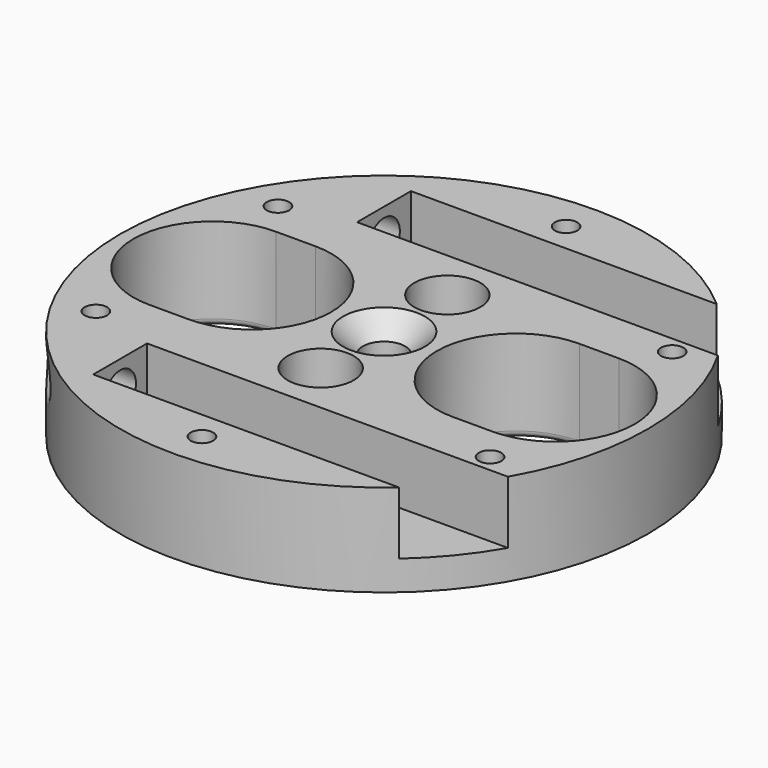
from build123d import *

# Parameters (mm, degrees)
SKETCH020_R           = 40
SKETCH020_R_2         = 3.2
SKETCH020_R_3         = 5
PAD_DEPTH             = 14
SKETCH_W              = 60
SKETCH_H              = 10.2
POCKET_DEPTH          = 9.5
SKETCH022_R           = 1.7
POCKET002_DEPTH       = 242.001
POLARPATTERN001_COUNT = 6
SKETCH024_R           = 3
POCKET003_DEPTH       = 20.001
CHAMFER_SIZE          = 3
CHAMFER001_SIZE       = 1.7
CHAMFER002_SIZE       = 1.7
CHAMFER003_SIZE       = 1.7
CHAMFER004_SIZE       = 1.7
CHAMFER005_SIZE       = 1.7
CHAMFER006_SIZE       = 1.7
FILLET_R              = 1
FILLET001_R           = 1
FILLET002_R           = 1
FILLET003_R           = 1
FILLET004_R           = 1
FILLET005_R           = 1


with BuildPart() as part:
    # Sketch020 → Pad (new body)
    with BuildSketch(Plane(origin=(0, 0, 0), x_dir=(1, 0, 0), z_dir=(0, 0, -1))):
        Circle(SKETCH020_R)
        Circle(SKETCH020_R_2, mode=Mode.SUBTRACT)
        with Locations((0, 12)):
            Circle(SKETCH020_R_3, mode=Mode.SUBTRACT)
        with Locations((0, -12)):
            Circle(SKETCH020_R_3, mode=Mode.SUBTRACT)
        with BuildLine():
            ThreePointArc((-26, 12), (-38, 0), (-26, -12))
            Line((-26, -12), (-20, -12))
            ThreePointArc((-20, -12), (-8, 0), (-20, 12))
            Line((-26, 12), (-20, 12))
        make_face(mode=Mode.SUBTRACT)
        with BuildLine():
            ThreePointArc((20, 12), (8, 0), (20, -12))
            Line((20, -12), (26, -12))
            ThreePointArc((26, -12), (38, 0), (26, 12))
            Line((20, 12), (26, 12))
        make_face(mode=Mode.SUBTRACT)
    extrude(amount=PAD_DEPTH)

    # Sketch → Pocket (cut)
    with BuildSketch(Plane.XY):
        with Locations((10, 25)):
            Rectangle(SKETCH_W, SKETCH_H)
        with Locations((10, -25)):
            Rectangle(SKETCH_W, SKETCH_H)
    extrude(amount=-POCKET_DEPTH, mode=Mode.SUBTRACT)

    # Sketch022 → Pocket002 (cut, through all)
    with BuildSketch(Plane.XY):
        with Locations((29.877876, 17.25)):
            Circle(SKETCH022_R)
    pocket002 = extrude(amount=-POCKET002_DEPTH, mode=Mode.SUBTRACT)

    # PolarPattern001: Pocket002 ×6 about axis
    polarpattern001_axis = Axis((0, 0, 0), (0, 0, 1))
    for i in range(1, POLARPATTERN001_COUNT):
        add(pocket002.rotate(polarpattern001_axis, i * 360 / POLARPATTERN001_COUNT), mode=Mode.SUBTRACT)

    # Sketch024 → Pocket003 (cut, through all)
    with BuildSketch(Plane(origin=(-20, 0, 0), x_dir=(0, -1, 0), z_dir=(1, 0, 0))):
        with Locations((-25, 4.5)):
            Circle(SKETCH024_R)
        with Locations((25, 4.5)):
            Circle(SKETCH024_R)
    extrude(amount=-POCKET003_DEPTH, mode=Mode.SUBTRACT)

    # Chamfer
    chamfer_edges = [part.edges().sort_by_distance(p)[0] for p in [
        (-3.2, 0, 0),
    ]]
    chamfer(chamfer_edges, length=CHAMFER_SIZE)

    # Chamfer001
    chamfer001_edges = [part.edges().sort_by_distance(p)[0] for p in [
        (28.177876, 17.25, -14),
    ]]
    chamfer(chamfer001_edges, length=CHAMFER001_SIZE)

    # Chamfer002
    chamfer002_edges = [part.edges().sort_by_distance(p)[0] for p in [
        (29.027876, -15.777757, -14),
    ]]
    chamfer(chamfer002_edges, length=CHAMFER002_SIZE)

    # Chamfer003
    chamfer003_edges = [part.edges().sort_by_distance(p)[0] for p in [
        (0.85, -33.027757, -14),
    ]]
    chamfer(chamfer003_edges, length=CHAMFER003_SIZE)

    # Chamfer004
    chamfer004_edges = [part.edges().sort_by_distance(p)[0] for p in [
        (-0.85, 33.027757, -14),
    ]]
    chamfer(chamfer004_edges, length=CHAMFER004_SIZE)

    # Chamfer005
    chamfer005_edges = [part.edges().sort_by_distance(p)[0] for p in [
        (-28.177876, -17.25, -14),
    ]]
    chamfer(chamfer005_edges, length=CHAMFER005_SIZE)

    # Chamfer006
    chamfer006_edges = [part.edges().sort_by_distance(p)[0] for p in [
        (-29.027876, 15.777757, -14),
    ]]
    chamfer(chamfer006_edges, length=CHAMFER006_SIZE)

    # Fillet
    fillet_edges = [part.edges().sort_by_distance(p)[0] for p in [
        (-31.156443, -25.085375, -7.498785),
    ]]
    fillet(fillet_edges, radius=FILLET_R)

    # Fillet001
    fillet001_edges = [part.edges().sort_by_distance(p)[0] for p in [
        (-31.156443, 25.085375, -7.498785),
    ]]
    fillet(fillet001_edges, radius=FILLET001_R)

    # Fillet002
    fillet002_edges = [part.edges().sort_by_distance(p)[0] for p in [
        (23, 12, -14),
    ]]
    fillet(fillet002_edges, radius=FILLET002_R)

    # Fillet003
    fillet003_edges = [part.edges().sort_by_distance(p)[0] for p in [
        (-23, 12, -14),
    ]]
    fillet(fillet003_edges, radius=FILLET003_R)

    # Fillet004
    fillet004_edges = [part.edges().sort_by_distance(p)[0] for p in [
        (-5, 12, -14),
    ]]
    fillet(fillet004_edges, radius=FILLET004_R)

    # Fillet005
    fillet005_edges = [part.edges().sort_by_distance(p)[0] for p in [
        (-5, -12, -14),
    ]]
    fillet(fillet005_edges, radius=FILLET005_R)


solid = part.part
